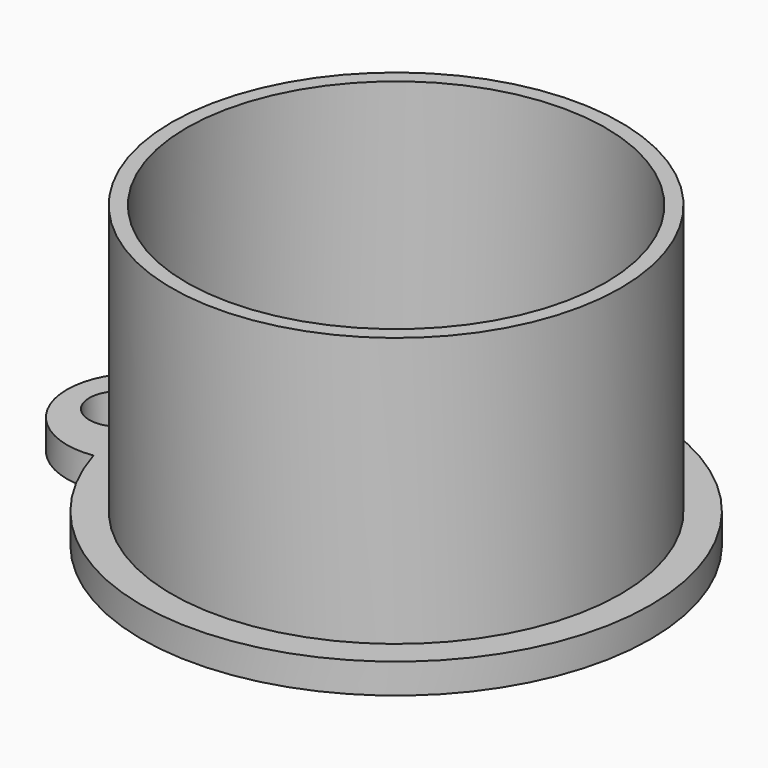
from build123d import *

# Parameters (mm, degrees)
F0_R     = 19.05
F1_DEPTH = 25.4
F2_T     = -1.27
F3_R     = 2.54
F3_R_2   = 19.05
F4_DEPTH = 2.54
F5_R     = 1.27
F6_DEPTH = 7.62


with BuildPart() as f1:
    # F0 (on Top) → F1 (new body)
    with BuildSketch(Plane.XY):
        Circle(F0_R)
    extrude(amount=F1_DEPTH)

    # F2
    f2_openings = [f1.faces().sort_by_distance(p)[0] for p in [
        (0, 0, 25.4),
    ]]
    offset(amount=F2_T, openings=f2_openings)

    # F3 (on face) → F4 (join)
    with BuildSketch(Plane(origin=(0, 0, 0), x_dir=(1, 0, 0), z_dir=(0, 0, -1))):
        with BuildLine():
            ThreePointArc((-20.6561764706, 6.2809612016), (-27.94, 0), (-20.6561764706, -6.2809612016))
            ThreePointArc((-20.6561764706, -6.2809612016), (21.59, 0), (-20.6561764706, 6.2809612016))
        make_face()
        with Locations((-23.495, 0)):
            Circle(F3_R, mode=Mode.SUBTRACT)
        Circle(F3_R_2, mode=Mode.SUBTRACT)
    extrude(amount=-F4_DEPTH)

    # F5 (on face) → F6 (join)
    with BuildSketch(Plane.XY.offset(1.27)):
        Circle(F5_R)
    extrude(amount=F6_DEPTH)


solid = f1.part
